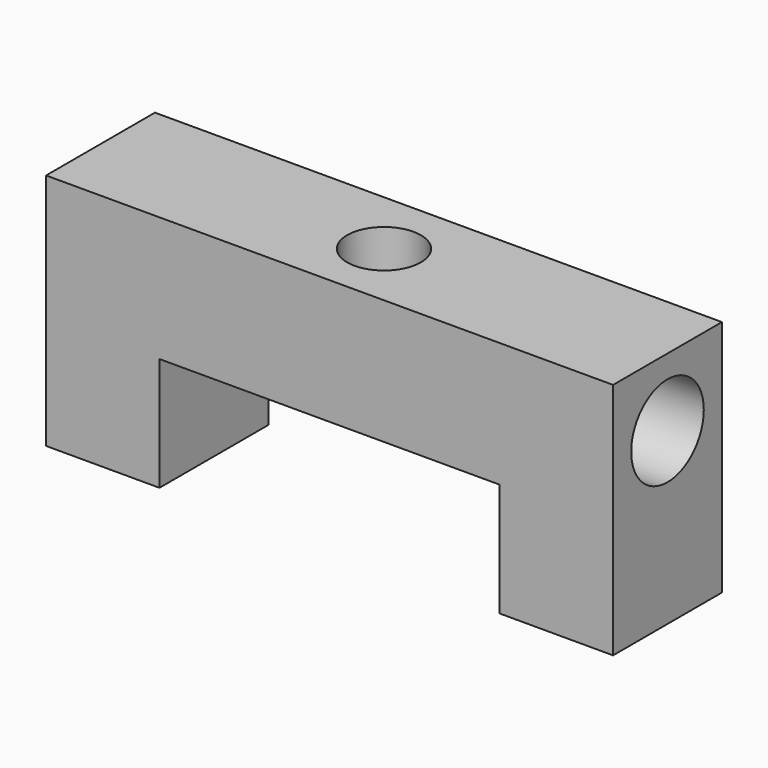
from build123d import *

# Parameters (mm, degrees)
F1_DEPTH = 12
F2_R     = 4
F3_DEPTH = 10
F4_R     = 3.25
F5_DEPTH = 21.001


with BuildPart() as f1:
    # F0 (on Front) → F1 (new body)
    with BuildSketch(Plane.XZ):
        Polygon((-15, 0), (0, 0), (15, 0), (15, -10), (25, -10), (25, 11), (0, 11), (-25, 11), (-25, -10), (-15, -10), align=None)
    extrude(amount=F1_DEPTH)

    # F2 (on face) → F3 (cut)
    with BuildSketch(Plane.YZ.offset(25)):
        with Locations((-6, 5)):
            Circle(F2_R)
    extrude(amount=-F3_DEPTH, mode=Mode.SUBTRACT)

    # F4 (on face) → F5 (cut, through all)
    with BuildSketch(Plane.XY.offset(11)):
        with Locations((0, -6)):
            Circle(F4_R)
    extrude(amount=-F5_DEPTH, mode=Mode.SUBTRACT)


solid = f1.part
